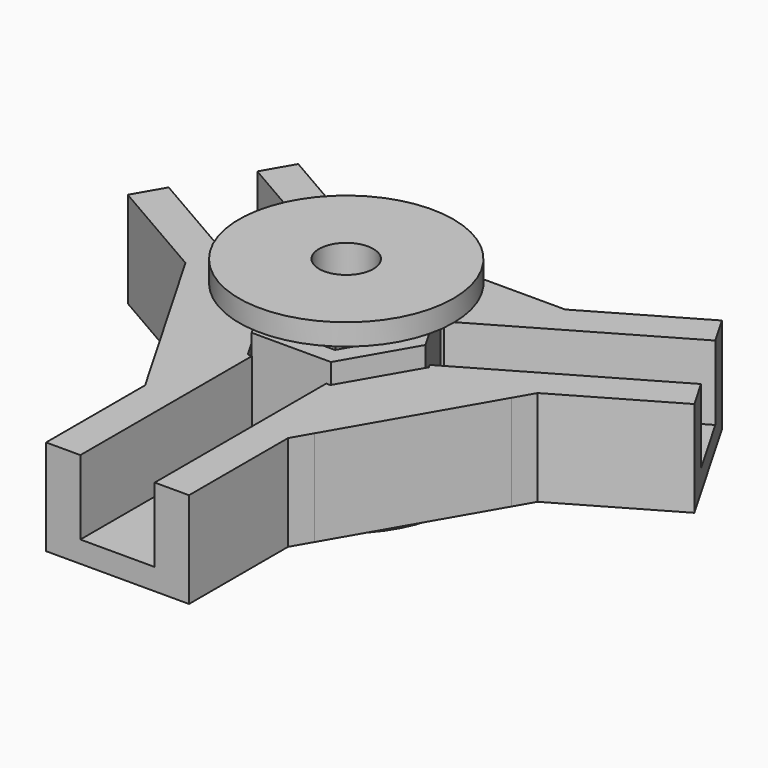
from build123d import *

# Parameters (mm, degrees)
F0_W          = 5.2
F0_H          = 10
F0_H_2        = 5
F2_DEPTH      = 1.5
F3_DEPTH      = 5.2
F4_COUNT      = 3
F7_START      = -1.5
F5_R          = 7.5
F5_R_2        = 1.9
F7_DEPTH      = 1.5
F8_DEPTH      = 6.5
F8_DEPTH_BACK = 3
F9_START      = 8.5
F9_DEPTH      = 1.5
F10_START     = 1.5
F10_DEPTH     = 8.5


with BuildPart() as f2:
    # F0 (on Top) → F2 (new body, through all)
    with BuildSketch(Plane.XY):
        with Locations((0, -15)):
            Rectangle(F0_W, F0_H)
        with Locations((0, -7.5)):
            Rectangle(F0_W, F0_H_2)
        Polygon((-2.6, -20), (-2.6, -10), (-2.6, -5), (-2.8867513459, -5), (-5.7735026919, 0), (-11.5470053838, 0), (-5.7735026919, -10), (-5, -11.3397459622), (-5, -20), align=None)
        Polygon((2.6, -5), (2.6, -10), (2.6, -20), (5, -20), (5, -11.3397459622), (5.7735026919, -10), (11.5470053838, 0), (5.7735026919, 0), (2.8867513459, -5), align=None)
    extrude(amount=-F2_DEPTH)

    # F0 (on Top) → F3 (join, through all)
    with BuildSketch(Plane.XY):
        Polygon((-2.6, -20), (-2.6, -10), (-2.6, -5), (-2.8867513459, -5), (-5.7735026919, 0), (-11.5470053838, 0), (-5.7735026919, -10), (-5, -11.3397459622), (-5, -20), align=None)
        Polygon((2.6, -5), (2.6, -10), (2.6, -20), (5, -20), (5, -11.3397459622), (5.7735026919, -10), (11.5470053838, 0), (5.7735026919, 0), (2.8867513459, -5), align=None)
    extrude(amount=F3_DEPTH)

    # F4: F2 ×3 about axis
    f4_axis = Axis((0, 0, 3.5901106894), (0, 0, -1))


with BuildPart() as f2_1:
    add(f2.part)
    for i in range(1, F4_COUNT):
        add(f2.part.rotate(f4_axis, i * 360 / F4_COUNT))


with BuildPart() as f7:
    # F5 (on Top) → F7 (new body)
    with BuildSketch(Plane.XY.offset(F7_START)):
        Circle(F5_R)
        Polygon((5.5425625842, 0), (2.7712812921, -4.8), (-2.7712812921, -4.8), (-5.5425625842, 0), (-2.7712812921, 4.8), (2.7712812921, 4.8), align=None, mode=Mode.SUBTRACT)
        Polygon((-2.7712812921, -4.8), (2.7712812921, -4.8), (5.5425625842, 0), (2.7712812921, 4.8), (-2.7712812921, 4.8), (-5.5425625842, 0), align=None)
        Polygon((4.0991869112, 0), (2.0495934556, -3.55), (-2.0495934556, -3.55), (-4.0991869112, 0), (-2.0495934556, 3.55), (2.0495934556, 3.55), align=None, mode=Mode.SUBTRACT)
        Polygon((-2.0495934556, -3.55), (2.0495934556, -3.55), (4.0991869112, 0), (2.0495934556, 3.55), (-2.0495934556, 3.55), (-4.0991869112, 0), align=None)
        Polygon((3.8682468036, 0), (1.9341234018, -3.35), (-1.9341234018, -3.35), (-3.8682468036, 0), (-1.9341234018, 3.35), (1.9341234018, 3.35), align=None, mode=Mode.SUBTRACT)
        Polygon((-1.9341234018, -3.35), (1.9341234018, -3.35), (3.8682468036, 0), (1.9341234018, 3.35), (-1.9341234018, 3.35), (-3.8682468036, 0), align=None)
        Circle(F5_R_2, mode=Mode.SUBTRACT)
    extrude(amount=-F7_DEPTH)

    # F5 (on Top) → F8 (join, two sides)
    with BuildSketch(Plane.XY) as f8_sk:
        Polygon((-2.7712812921, -4.8), (2.7712812921, -4.8), (5.5425625842, 0), (2.7712812921, 4.8), (-2.7712812921, 4.8), (-5.5425625842, 0), align=None)
        Polygon((4.0991869112, 0), (2.0495934556, -3.55), (-2.0495934556, -3.55), (-4.0991869112, 0), (-2.0495934556, 3.55), (2.0495934556, 3.55), align=None, mode=Mode.SUBTRACT)
    extrude(amount=F8_DEPTH)
    extrude(f8_sk.sketch, amount=-F8_DEPTH_BACK)


with BuildPart() as f9:
    # F5 (on Top) → F9 (new body)
    with BuildSketch(Plane.XY.offset(F9_START)):
        Circle(F5_R)
        Polygon((5.5425625842, 0), (2.7712812921, -4.8), (-2.7712812921, -4.8), (-5.5425625842, 0), (-2.7712812921, 4.8), (2.7712812921, 4.8), align=None, mode=Mode.SUBTRACT)
        Polygon((-2.7712812921, -4.8), (2.7712812921, -4.8), (5.5425625842, 0), (2.7712812921, 4.8), (-2.7712812921, 4.8), (-5.5425625842, 0), align=None)
        Polygon((4.0991869112, 0), (2.0495934556, -3.55), (-2.0495934556, -3.55), (-4.0991869112, 0), (-2.0495934556, 3.55), (2.0495934556, 3.55), align=None, mode=Mode.SUBTRACT)
        Polygon((-2.0495934556, -3.55), (2.0495934556, -3.55), (4.0991869112, 0), (2.0495934556, 3.55), (-2.0495934556, 3.55), (-4.0991869112, 0), align=None)
        Polygon((3.8682468036, 0), (1.9341234018, -3.35), (-1.9341234018, -3.35), (-3.8682468036, 0), (-1.9341234018, 3.35), (1.9341234018, 3.35), align=None, mode=Mode.SUBTRACT)
        Polygon((-1.9341234018, -3.35), (1.9341234018, -3.35), (3.8682468036, 0), (1.9341234018, 3.35), (-1.9341234018, 3.35), (-3.8682468036, 0), align=None)
        Circle(F5_R_2, mode=Mode.SUBTRACT)
    extrude(amount=F9_DEPTH)

    # F5 (on Top) → F10 (join)
    with BuildSketch(Plane.XY.offset(F10_START)):
        Polygon((-1.9341234018, -3.35), (1.9341234018, -3.35), (3.8682468036, 0), (1.9341234018, 3.35), (-1.9341234018, 3.35), (-3.8682468036, 0), align=None)
        Circle(F5_R_2, mode=Mode.SUBTRACT)
    extrude(amount=F10_DEPTH)


solid = Compound([f2_1.part, f7.part, f9.part])
